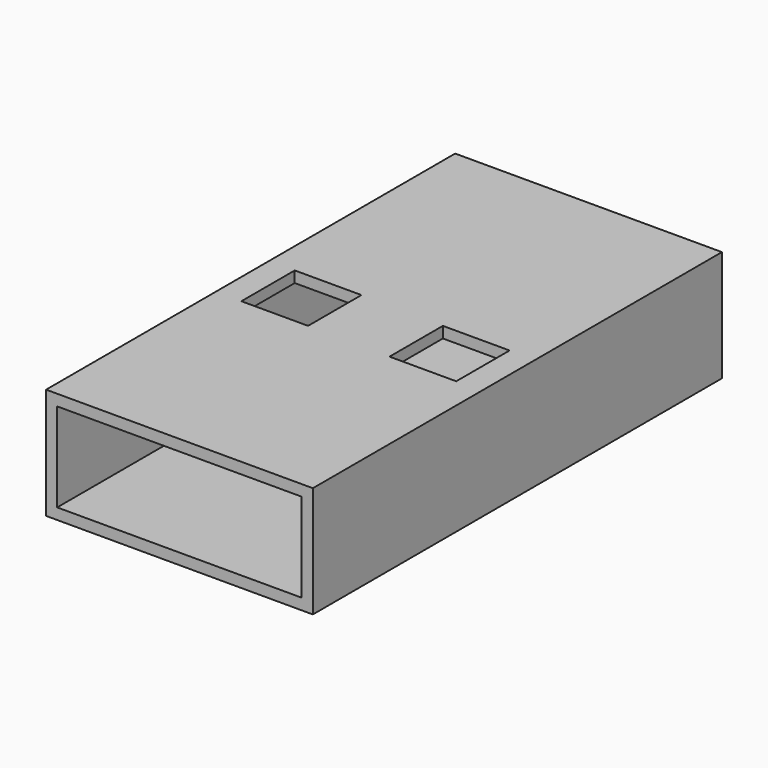
from build123d import *

# Parameters (mm, degrees)
F0_W     = 12
F0_H     = 5
F1_DEPTH = 23
F2_T     = -0.5
F3_W     = 3
F3_H     = 3
F4_DEPTH = 4.2
F5_W     = 3
F5_H     = 3
F6_DEPTH = 6.2


with BuildPart() as f1:
    # F0 (on Front) → F1 (new body)
    with BuildSketch(Plane.XZ):
        Rectangle(F0_W, F0_H)
    extrude(amount=F1_DEPTH)

    # F2
    f2_openings = [f1.faces().sort_by_distance(p)[0] for p in [
        (0, -23, 0),
    ]]
    offset(amount=F2_T, openings=f2_openings)

    # F3 (on Top) → F4 (cut)
    with BuildSketch(Plane.XY):
        with Locations((-3.345713, -11.96193)):
            Rectangle(F3_W, F3_H)
    extrude(amount=F4_DEPTH, mode=Mode.SUBTRACT)

    # F5 (on Top) → F6 (cut)
    with BuildSketch(Plane.XY):
        with Locations((3.351791, -12.00388)):
            Rectangle(F5_W, F5_H)
    extrude(amount=F6_DEPTH, mode=Mode.SUBTRACT)


solid = f1.part
